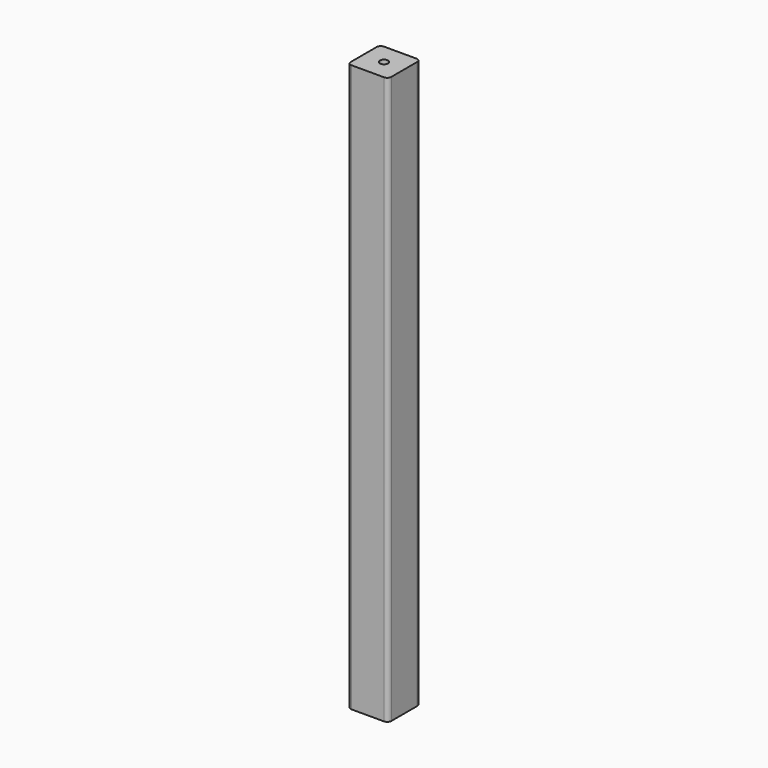
from build123d import *

# Parameters (mm, degrees)
F0_W     = 40
F0_H     = 40
F1_DEPTH = 560
F3_D     = 8
F4_R     = 4


with BuildPart() as f1:
    # F0 (on Top) → F1 (new body)
    with BuildSketch(Plane.XY):
        Rectangle(F0_W, F0_H)
    extrude(amount=F1_DEPTH)

    # F3 (through all)
    with Locations(Plane.XY.offset(560)):
        with Locations((0, 0)):
            Hole(F3_D / 2)

    # F4
    f4_edges = [f1.edges().sort_by_distance(p)[0] for p in [
        (20, -20, 280),
        (-20, -20, 280),
        (20, 20, 280),
        (-20, 20, 280),
    ]]
    fillet(f4_edges, radius=F4_R)


solid = f1.part
